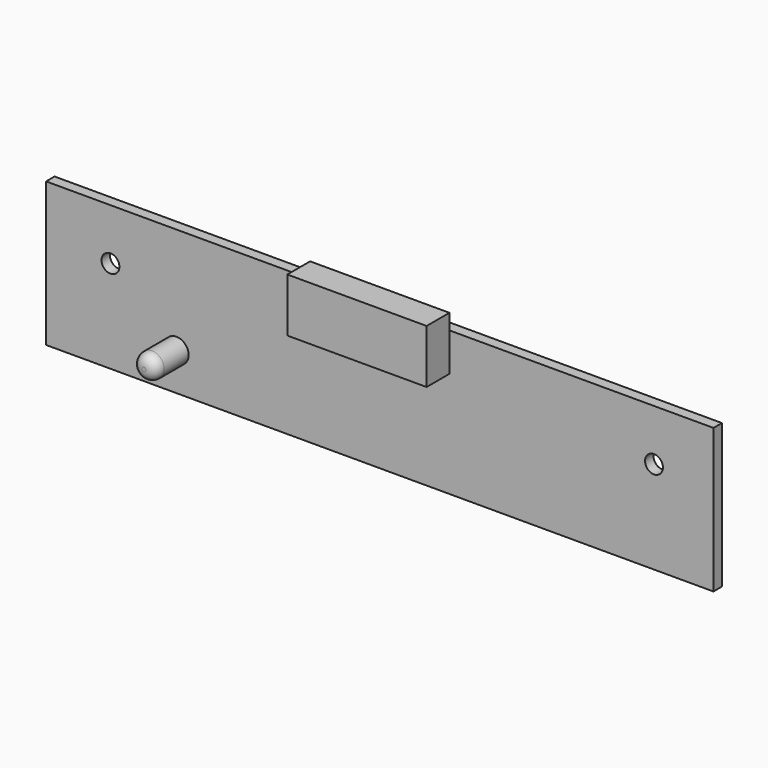
from build123d import *

# Parameters (mm, degrees)
F0_W     = 104.0384
F0_H     = 22.4536
F1_DEPTH = 1.651
F2_R     = 1.9
F3_DEPTH = 6.35
F4_R     = 1.5875
F5_R     = 1.397
F6_DEPTH = 1.651
F7_W     = 21.717
F7_H     = 8.382
F8_DEPTH = 4.445


with BuildPart() as f1:
    # F0 (on Front) → F1 (new body)
    with BuildSketch(Plane.XZ):
        with Locations((52.0192, 11.2268)):
            Rectangle(F0_W, F0_H)
    extrude(amount=F1_DEPTH)

    # F2 (on face) → F3 (join)
    with BuildSketch(Plane.XZ.offset(1.651)):
        with Locations((20.32, 5.842)):
            Circle(F2_R)
    extrude(amount=F3_DEPTH)

    # F4
    f4_edges = [f1.edges().sort_by_distance(p)[0] for p in [
        (18.42, -8.001, 5.842),
    ]]
    fillet(f4_edges, radius=F4_R)

    # F5 (on face) → F6 (cut, through all)
    with BuildSketch(Plane.XZ.offset(1.651)):
        with Locations((10.033, 14.4526)):
            Circle(F5_R)
        with Locations((94.7674, 14.4526)):
            Circle(F5_R)
    extrude(amount=-F6_DEPTH, mode=Mode.SUBTRACT)

    # F7 (on face) → F8 (join)
    with BuildSketch(Plane.XZ.offset(1.651)):
        with Locations((52.0192, 20.6756)):
            Rectangle(F7_W, F7_H)
    extrude(amount=F8_DEPTH)


solid = f1.part
